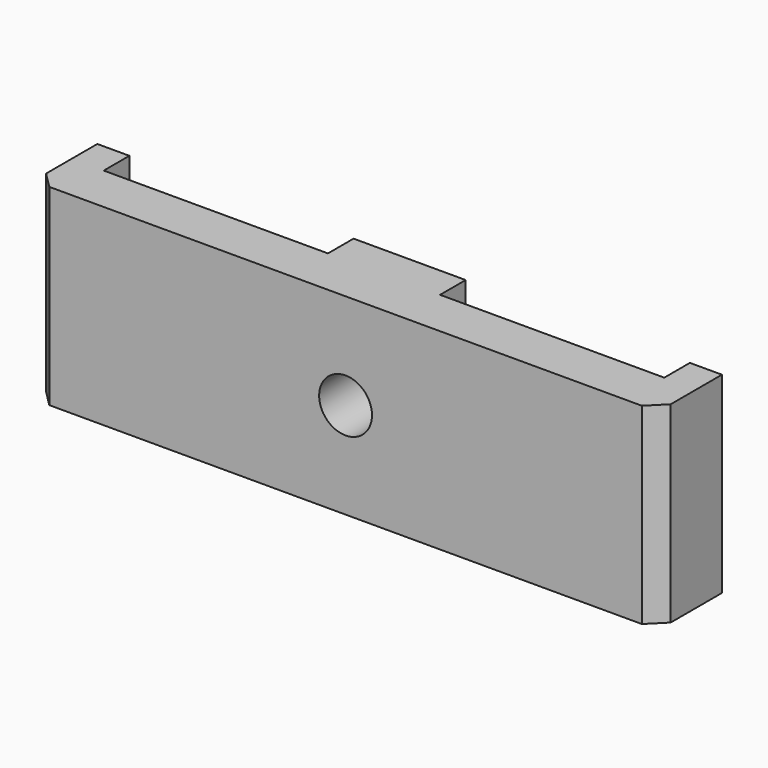
from build123d import *

# Parameters (mm, degrees)
CYLINDER002_R     = 1.65
CYLINDER002_DEPTH = 10
BOX005_W          = 7
BOX005_H          = 5
BOX005_DEPTH      = 12
BOX006_W          = 14
BOX006_H          = 3
BOX006_DEPTH      = 12
BOX007_W          = 2
BOX007_H          = 5
BOX007_DEPTH      = 12
BOX008_W          = 14
BOX008_H          = 3
BOX008_DEPTH      = 12
BOX009_W          = 2
BOX009_H          = 5
BOX009_DEPTH      = 12
BOX010_W          = 7
BOX010_H          = 2
BOX010_DEPTH      = 7.8
CHAMFER005_SIZE   = 1


with BuildPart() as cylinder002:
    # Cylinder002 → Cylinder002 (new body)
    with BuildSketch(Plane(origin=(0, 0, 6), x_dir=(1, 0, 0), z_dir=(0, 1, 0))):
        Circle(CYLINDER002_R)
    extrude(amount=CYLINDER002_DEPTH)


with BuildPart() as cube005:
    # Box005 → Box005 (new body)
    with BuildSketch(Plane(origin=(-3.5, 0, 0), x_dir=(1, 0, 0), z_dir=(0, 0, 1))):
        with Locations((3.5, 2.5)):
            Rectangle(BOX005_W, BOX005_H)
    extrude(amount=BOX005_DEPTH)


with BuildPart() as cube006:
    # Box006 → Box006 (new body)
    with BuildSketch(Plane(origin=(3.5, 0, 0), x_dir=(1, 0, 0), z_dir=(0, 0, 1))):
        with Locations((7, 1.5)):
            Rectangle(BOX006_W, BOX006_H)
    extrude(amount=BOX006_DEPTH)


with BuildPart() as cube007:
    # Box007 → Box007 (new body)
    with BuildSketch(Plane(origin=(17.5, 0, 0), x_dir=(1, 0, 0), z_dir=(0, 0, 1))):
        with Locations((1, 2.5)):
            Rectangle(BOX007_W, BOX007_H)
    extrude(amount=BOX007_DEPTH)


with BuildPart() as cube008:
    # Box008 → Box008 (new body)
    with BuildSketch(Plane(origin=(-17.5, 0, 0), x_dir=(1, 0, 0), z_dir=(0, 0, 1))):
        with Locations((7, 1.5)):
            Rectangle(BOX008_W, BOX008_H)
    extrude(amount=BOX008_DEPTH)


with BuildPart() as cube009:
    # Box009 → Box009 (new body)
    with BuildSketch(Plane(origin=(-19.5, 0, 0), x_dir=(1, 0, 0), z_dir=(0, 0, 1))):
        with Locations((1, 2.5)):
            Rectangle(BOX009_W, BOX009_H)
    extrude(amount=BOX009_DEPTH)


with BuildPart() as chamfer005:
    # Box010 → Box010 (new body)
    with BuildSketch(Plane(origin=(-3.5, 4, 2.1), x_dir=(1, 0, 0), z_dir=(0, 0, 1))):
        with Locations((3.5, 1)):
            Rectangle(BOX010_W, BOX010_H)
    extrude(amount=BOX010_DEPTH)

    # Fusion003: union Cube005, Cube006, Cube007, Cube008, Cube009
    add(cube005.part)
    add(cube006.part)
    add(cube007.part)
    add(cube008.part)
    add(cube009.part)

    # Cut003: cut Cylinder002
    add(cylinder002.part, mode=Mode.SUBTRACT)

    # Chamfer005
    chamfer005_edges = [chamfer005.edges().sort_by_distance(p)[0] for p in [
        (-19.5, 0, 6),
        (19.5, 0, 6),
    ]]
    chamfer(chamfer005_edges, length=CHAMFER005_SIZE)


solid = chamfer005.part
